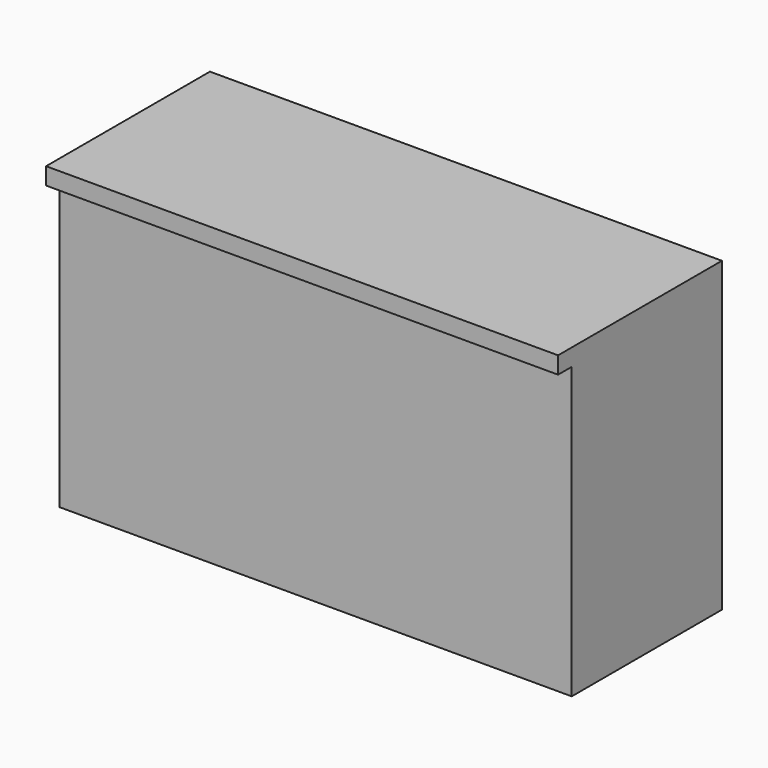
from build123d import *

# Parameters (mm, degrees)
F0_W     = 1524
F0_H     = 609.6
F1_DEPTH = 914.4
F2_W     = 50.8
F2_H     = 863.6
F3_DEPTH = 3048


with BuildPart() as f1:
    # F0 (on Top) → F1 (new body)
    with BuildSketch(Plane.XY):
        Rectangle(F0_W, F0_H)
    extrude(amount=F1_DEPTH)

    # F2 (on face) → F3 (cut)
    with BuildSketch(Plane.YZ.offset(762)):
        with Locations((-279.4, 431.8)):
            Rectangle(F2_W, F2_H)
    extrude(amount=-F3_DEPTH, mode=Mode.SUBTRACT)


solid = f1.part
